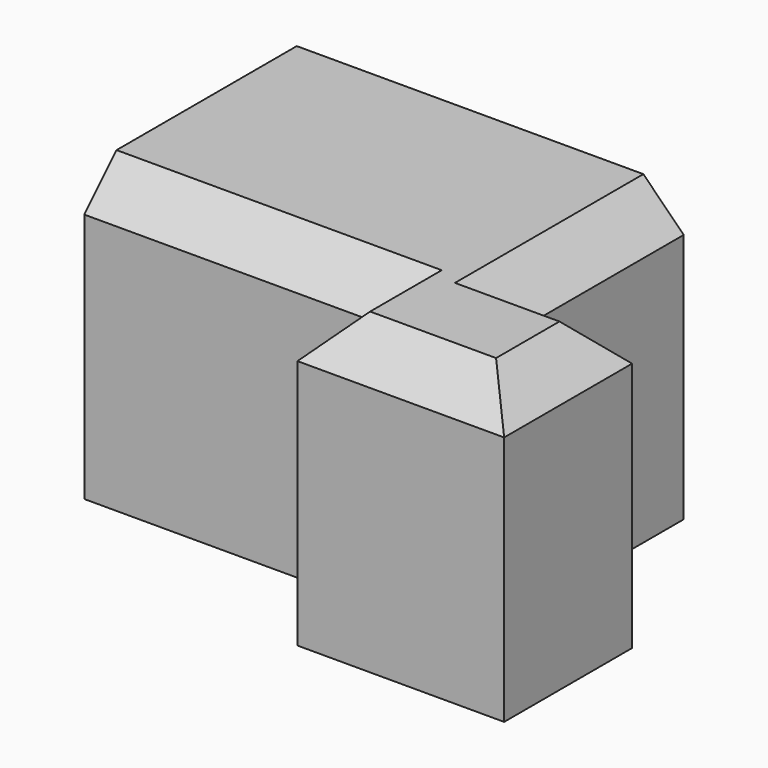
from build123d import *

# Parameters (mm, degrees)
F0_W     = 32.155059278
F0_H     = 22.1614539623
F1_DEPTH = 91.5020089597
F2_SIZE  = 12.7


with BuildPart() as f1:
    # F0 (on Top) → F1 (new body)
    with BuildSketch(Plane.XY):
        Polygon((0, 28.1687378883), (0, 50.3301918507), (32.155059278, 50.3301918507), (32.155059278, 111.7442771792), (-89.617818594, 111.7442771792), (-89.617818594, 28.1687378883), align=None)
        with Locations((16.077529639, 39.2494648695)):
            Rectangle(F0_W, F0_H)
        Polygon((65.0401264429, 50.3301918507), (32.155059278, 50.3301918507), (32.155059278, 28.1687378883), (0, 28.1687378883), (0, 0), (65.0401264429, 0), align=None)
    extrude(amount=F1_DEPTH)

    # F2
    f2_edges = [f1.edges().sort_by_distance(p)[0] for p in [
        (-44.808909, 28.168738, 91.502009),
        (0, 14.084369, 91.502009),
        (32.520063, 0, 91.502009),
        (65.040126, 25.165096, 91.502009),
        (48.597593, 50.330192, 91.502009),
        (32.155059, 81.037235, 91.502009),
    ]]
    chamfer(f2_edges, length=F2_SIZE)


solid = f1.part
